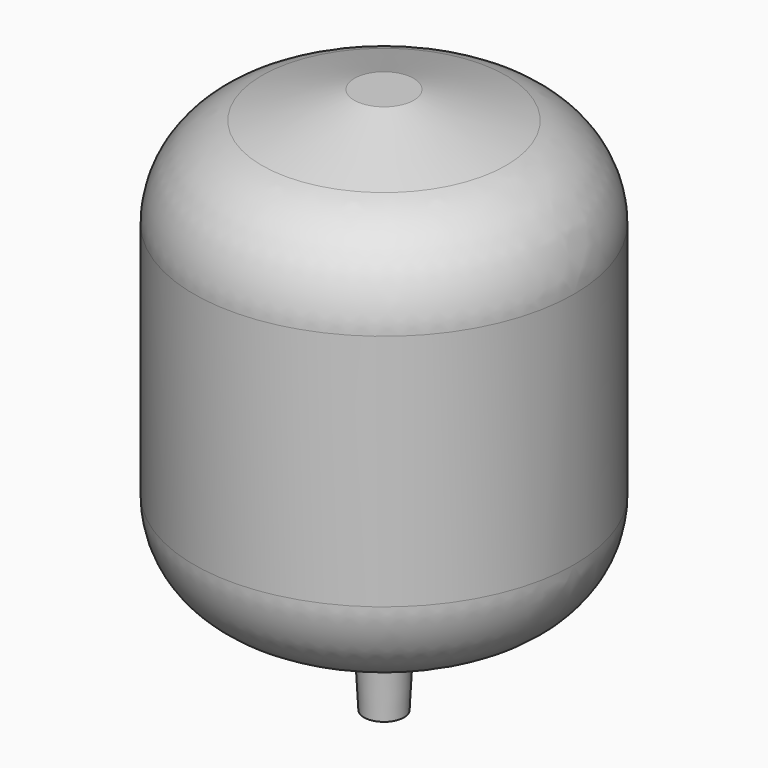
from build123d import *

# Parameters (mm, degrees)
F0_R     = 101.6
F1_DEPTH = 254
F2_R     = 12.7
F3_DEPTH = 38.1
F3_TAPER = 3
F4_SIZE2 = 85.725
F4_SIZE  = 25.4
F5_R     = 50.8


with BuildPart() as f1:
    # F0 (on Top) → F1 (new body)
    with BuildSketch(Plane.XY):
        Circle(F0_R)
    extrude(amount=F1_DEPTH)

    # F2 (on face) → F3 (join)
    with BuildSketch(Plane(origin=(0, 0, 0), x_dir=(1, 0, 0), z_dir=(0, 0, -1))):
        Circle(F2_R)
    extrude(amount=F3_DEPTH, taper=F3_TAPER)

    # F4
    f4_edges = [f1.edges().sort_by_distance(p)[0] for p in [
        (-101.6, 0, 254),
        (-101.6, 0, 0),
    ]]
    f4_side = f1.faces().sort_by_distance((-101.6, 0, 127))[0]
    chamfer(f4_edges, length=F4_SIZE, length2=F4_SIZE2, reference=f4_side)

    # F5
    f5_edges = [f1.edges().sort_by_distance(p)[0] for p in [
        (-101.6, 0, 25.4),
        (-101.6, 0, 228.6),
    ]]
    fillet(f5_edges, radius=F5_R)


solid = f1.part
